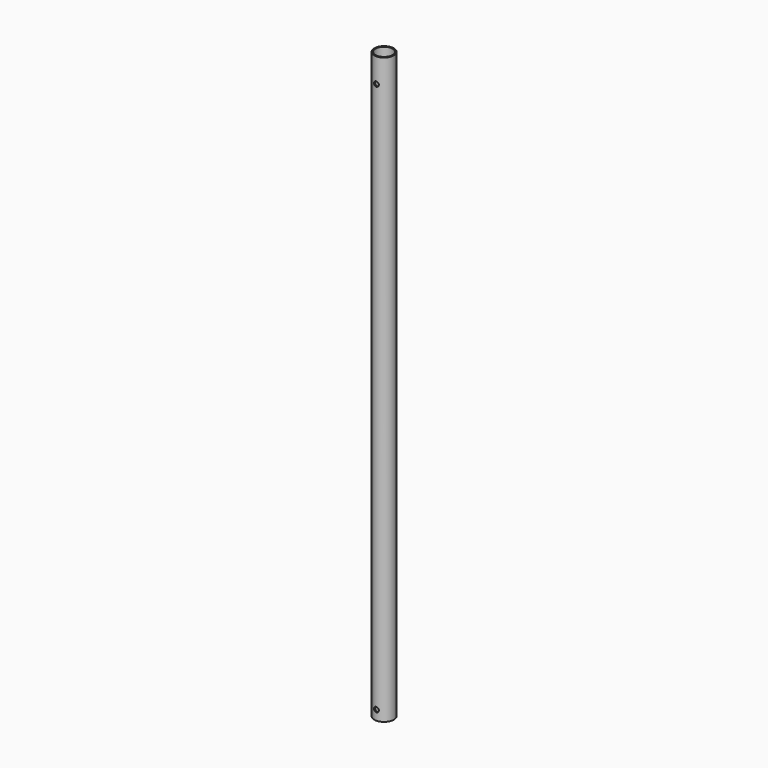
from build123d import *

# Parameters (mm, degrees)
F0_R     = 25.4
F0_R_2   = 22.225
F1_DEPTH = 1524
F2_R     = 6.35
F3_DEPTH = 25.4


with BuildPart() as f1:
    # F0 (on Top) → F1 (new body)
    with BuildSketch(Plane.XY):
        Circle(F0_R)
        Circle(F0_R_2, mode=Mode.SUBTRACT)
    extrude(amount=F1_DEPTH)

    # F2 (on Front) → F3 (cut, symmetric)
    with BuildSketch(Plane.XZ):
        with Locations((0, 1460.5)):
            Circle(F2_R)
        with Locations((0, 25.4)):
            Circle(F2_R)
    extrude(amount=F3_DEPTH, both=True, mode=Mode.SUBTRACT)


solid = f1.part
